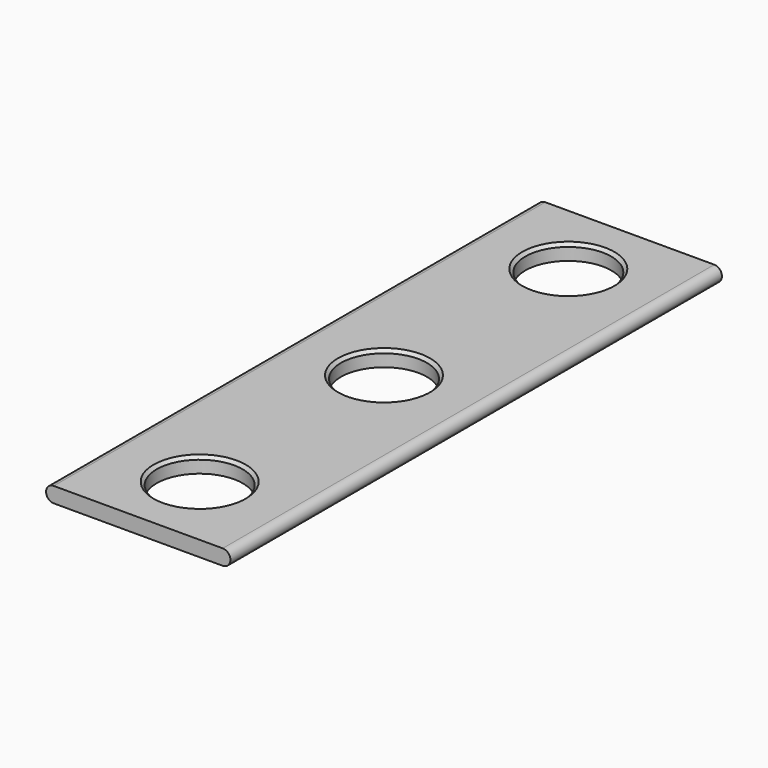
from build123d import *

# Parameters (mm, degrees)
PAD_DEPTH    = 2000
SKETCH001_R  = 140
POCKET_DEPTH = 50.001
CHAMFER_SIZE = 10


with BuildPart() as part:
    # Sketch → Pad (new body)
    with BuildSketch(Plane.XZ):
        with BuildLine():
            ThreePointArc((0, 25), (-25, 0), (0, -25))
            Line((0, -25), (550, -25))
            ThreePointArc((550, -25), (575, 0), (550, 25))
            Line((0, 25), (550, 25))
        make_face()
    extrude(amount=PAD_DEPTH)

    # Sketch001 (on Face4 of Pad) → Pocket (cut, through all)
    with BuildSketch(Plane(origin=(0, 0, 25), x_dir=(-1, 0, 0), z_dir=(0, 0, 1))):
        with Locations((-275, 1750)):
            Circle(SKETCH001_R)
        with Locations((-275, 1000)):
            Circle(SKETCH001_R)
        with Locations((-275, 250)):
            Circle(SKETCH001_R)
    extrude(amount=-POCKET_DEPTH, mode=Mode.SUBTRACT)

    # Chamfer
    chamfer_edges = [part.edges().sort_by_distance(p)[0] for p in [
        (415, -1750, 25),
        (415, -1000, 25),
        (415, -250, 25),
    ]]
    chamfer(chamfer_edges, length=CHAMFER_SIZE)


solid = part.part
